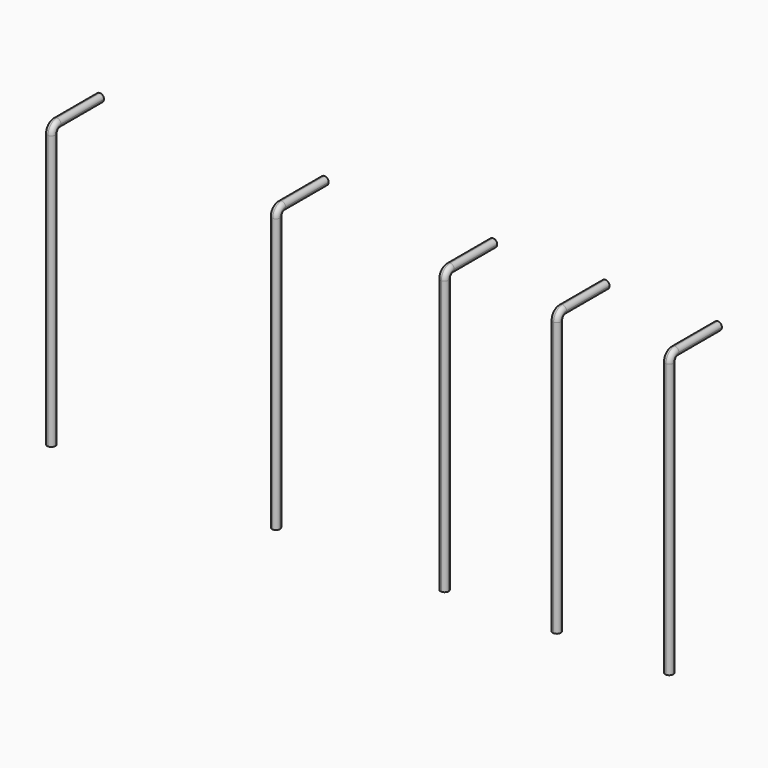
from build123d import *


with BuildPart() as f19:
    # F19: sweep along a path in F18
    with BuildLine(Plane.YZ.offset(-1676.4)) as f19_path:
        Line((-140.2544249311, 0), (-140.2544249311, 1485.9))
        ThreePointArc((-140.2544249311, 1485.9), (-129.0951932944, 1512.8407683632), (-102.1544249311, 1524))
        Line((-102.1544249311, 1524), (189.9455750689, 1524))
    # F7 (on Top) → F19 (sweep)
    with BuildSketch(Plane.XY):
        with BuildLine():
            ThreePointArc((1676.4, -161.925), (1692.1154482119, -155.4154482119), (1698.625, -139.7))
            ThreePointArc((1698.625, -139.7), (1660.6845517881, -123.9845517881), (1676.4, -161.925))
        make_face()
        with BuildLine():
            ThreePointArc((1066.8, -161.925), (1082.5154482119, -155.4154482119), (1089.025, -139.7))
            ThreePointArc((1089.025, -139.7), (1051.0845517881, -123.9845517881), (1066.8, -161.925))
        make_face()
        with BuildLine():
            ThreePointArc((457.2, -161.925), (472.9154482119, -155.4154482119), (479.425, -139.7))
            ThreePointArc((479.425, -139.7), (441.4845517881, -123.9845517881), (457.2, -161.925))
        make_face()
        with BuildLine():
            ThreePointArc((-457.2, -161.925), (-441.4845517881, -155.4154482119), (-434.975, -139.7))
            ThreePointArc((-434.975, -139.7), (-472.9154482119, -123.9845517881), (-457.2, -161.925))
        make_face()
        with BuildLine():
            ThreePointArc((-1676.4, -161.925), (-1660.6845517881, -155.4154482119), (-1654.175, -139.7))
            ThreePointArc((-1654.175, -139.7), (-1692.1154482119, -123.9845517881), (-1676.4, -161.925))
        make_face()
    sweep(path=f19_path.line)


solid = f19.part
